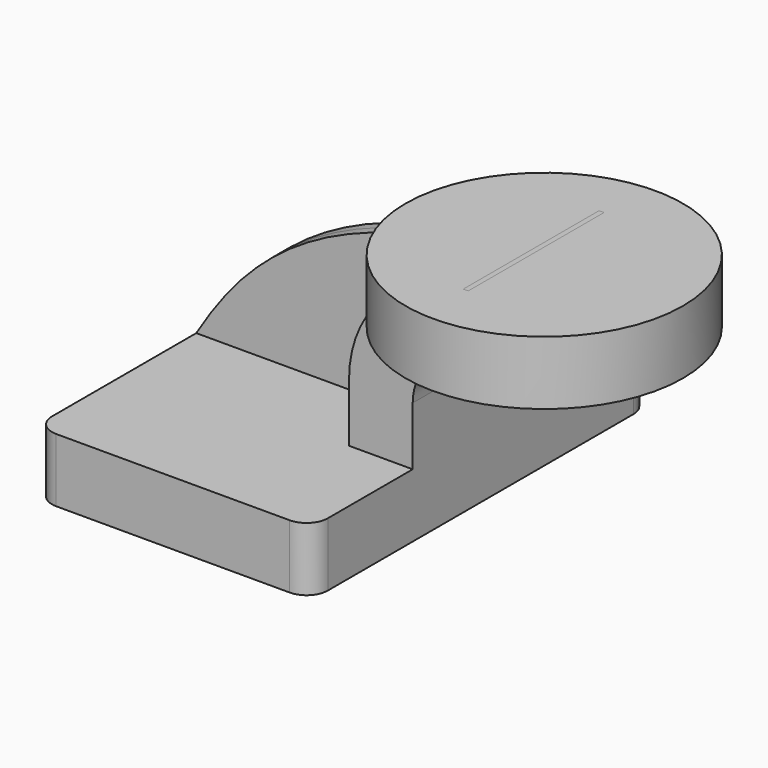
from build123d import *

# Parameters (mm, degrees)
F1_DEPTH = 63.5
F2_DEPTH = 25.4
F3_DEPTH = 3.175
F0_W     = 41.5249824387
F0_H     = 19.05
F5_R     = 6.35


with BuildPart() as f1:
    # F0 (on Front) → F1 (new body, symmetric)
    with BuildSketch(Plane.XZ):
        Polygon((-41.275, -9.525), (41.275, -9.525), (41.275, 9.525), (22.225, 9.525), (-41.275, 9.525), align=None)
    extrude(amount=F1_DEPTH, both=True)

    # F0 (on Front) → F2 (join, symmetric)
    with BuildSketch(Plane.XZ):
        with BuildLine():
            Line((22.225, 9.525), (41.275, 9.525))
            Line((41.275, 9.525), (41.275, 27.0081188058))
            ThreePointArc((41.275, 27.0081188058), (46.1033585618, 38.409317775), (57.6513575351, 42.8752))
            Line((57.6513575351, 42.8752), (60.325, 42.8752))
            Line((60.325, 42.8752), (60.325, 61.9252))
            Line((60.325, 61.9252), (57.8936839925, 61.9252))
            ThreePointArc((57.8936839925, 61.9252), (53.4742955907, 61.7391542366), (49.1138676774, 60.9960019746))
            ThreePointArc((49.1138676774, 60.9960019746), (29.7600607306, 48.6771485907), (22.225, 27.0081188058))
            Line((22.225, 27.0081188058), (22.225, 9.525))
        make_face()
    extrude(amount=F2_DEPTH, both=True)

    # F0 (on Front) → F3 (join, symmetric)
    with BuildSketch(Plane.XZ):
        with BuildLine():
            add(Edge.make_bspline(
                [(-41.275, 9.525), (-26.5586767346, 33.857088536), (-5.6087374687, 55.4516389966), (49.1138676774, 60.9960019746)],
                knots=[0, 0, 0, 0, 104.0163998813, 104.0163998813, 104.0163998813, 104.0163998813], degree=3))
            Line((-41.275, 9.525), (22.225, 9.525))
            Line((22.225, 9.525), (22.225, 27.0081188058))
            ThreePointArc((22.225, 27.0081188058), (29.7600607306, 48.6771485907), (49.1138676774, 60.9960019746))
        make_face()
    extrude(amount=F3_DEPTH, both=True)

    # F0 (on Front) → F4 (revolve)
    with BuildSketch(Plane.XZ):
        with Locations((81.0874912194, 52.4002)):
            Rectangle(F0_W, F0_H)
    revolve(axis=Axis((60.325, 0, 52.3875), (0, 0, 1)))

    # F5
    f5_edges = [f1.edges().sort_by_distance(p)[0] for p in [
        (41.275, -63.5, 0),
        (-41.275, -63.5, 0),
        (-41.275, 63.5, 0),
        (41.275, 63.5, 0),
    ]]
    fillet(f5_edges, radius=F5_R)


solid = f1.part
